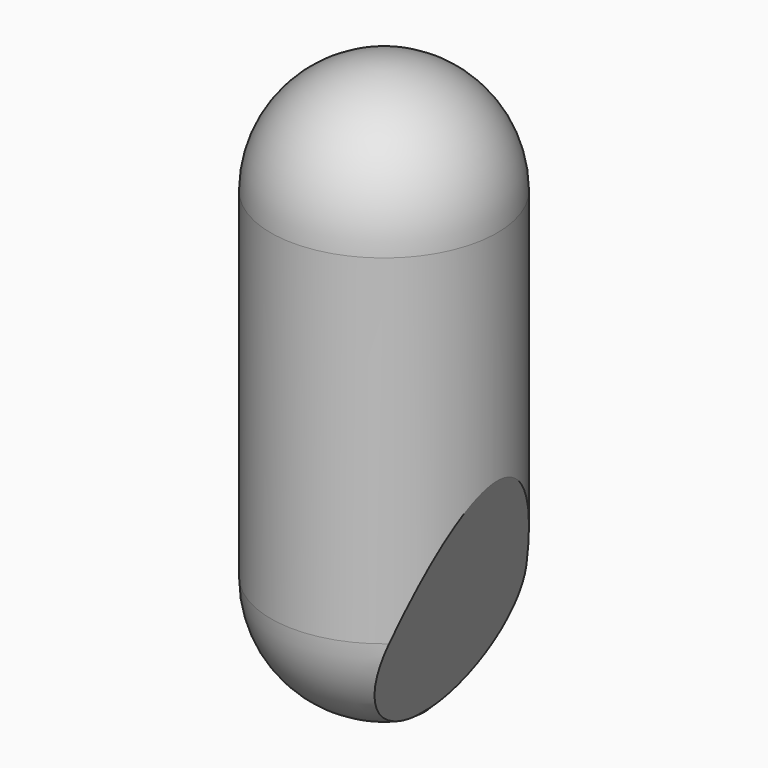
from build123d import *

# Parameters (mm, degrees)
F3_DEPTH = 67


with BuildPart() as f1:
    # F0 (on Right) → F1 (revolve)
    with BuildSketch(Plane.YZ):
        with BuildLine():
            ThreePointArc((-152.8260280422, -8.4497542544), (-145.7549602303, -5.5208220662), (-142.8260280422, 1.5502457456))
            ThreePointArc((-142.8260280422, 1.5502457456), (-145.7549602303, 8.6213135575), (-152.8260280422, 11.5502457456))
            Line((-152.8260280422, 11.5502457456), (-152.8260280422, -8.4497542544))
        make_face()
        with BuildLine():
            Line((-142.8260280422, -28.4497542544), (-142.8260280422, 1.5502457456))
            ThreePointArc((-142.8260280422, 1.5502457456), (-145.7549602303, -5.5208220662), (-152.8260280422, -8.4497542544))
            Line((-152.8260280422, -8.4497542544), (-152.8260280422, -18.4497542544))
            ThreePointArc((-152.8260280422, -18.4497542544), (-145.7549602303, -21.3786864425), (-142.8260280422, -28.4497542544))
        make_face()
        with BuildLine():
            ThreePointArc((-152.8260280422, -38.4497542544), (-145.7549602303, -35.5208220662), (-142.8260280422, -28.4497542544))
            ThreePointArc((-142.8260280422, -28.4497542544), (-145.7549602303, -21.3786864425), (-152.8260280422, -18.4497542544))
            Line((-152.8260280422, -18.4497542544), (-152.8260280422, -38.4497542544))
        make_face()
    revolve(axis=Axis((0, -152.8260280422, -13.4497542544), (0, 0, -1)))


with BuildPart() as f3:
    # F2 (on Front) → F3 (new body)
    with BuildSketch(Plane.XZ):
        Polygon((10.0054517388, -37.7888888825), (10.0054517388, -17.7050014576), (3.4798011376, -37.7888888825), align=None)
    extrude(amount=-F3_DEPTH)


with BuildPart() as f1_1:
    # F4: moved
    add(f1.part.moved(Location((0, 154, 0))))


with BuildPart() as f3_1:
    # F5: moved
    add(f3.part.moved(Location((0, -25, 0))))


with BuildPart() as f1_2:
    add(f1_1.part)

    # F6: cut F3
    add(f3_1.part, mode=Mode.SUBTRACT)


solid = f1_2.part
